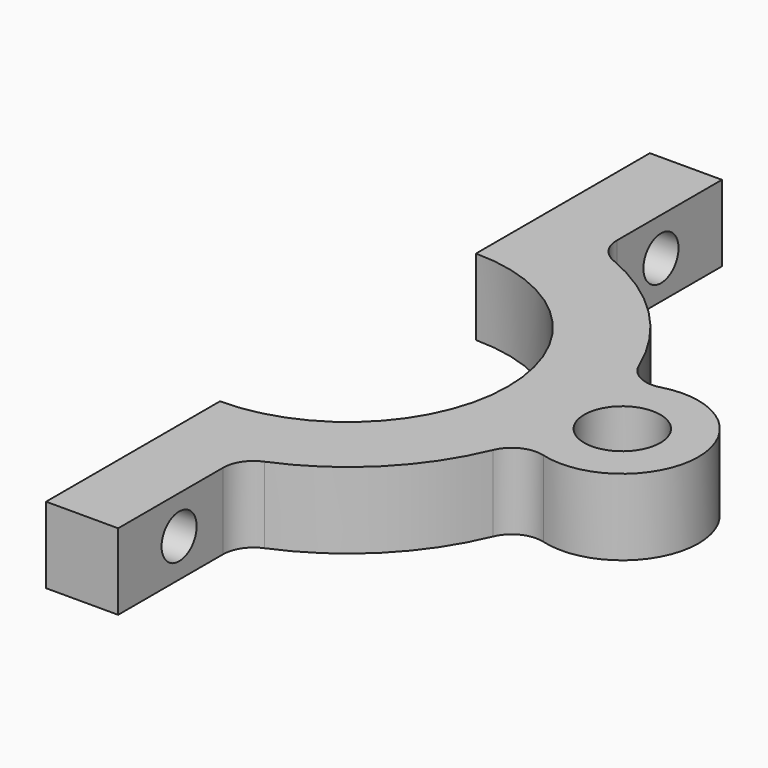
from build123d import *

# Parameters (mm, degrees)
F0_R     = 3.175
F1_DEPTH = 6.35
F2_R     = 1.8288
F3_R     = 1.8288
F4_DEPTH = 6.005883
F5_R     = 2.54


with BuildPart() as f1:
    # F0 (on Top) → F1 (new body)
    with BuildSketch(Plane.XY):
        with BuildLine():
            ThreePointArc((0, 13.335), (13.335, 0), (0, -13.335))
            Line((0, -13.335), (0, -31.446429))
            Line((0, -31.446429), (6.005883, -31.446429))
            Line((6.005883, -31.446429), (6.005883, -18.746429))
            ThreePointArc((6.005883, -18.746429), (14.263495, -13.566575), (19.023542, -5.060048))
            ThreePointArc((19.023542, -5.060048), (29.21, 0), (19.023542, 5.060048))
            ThreePointArc((19.023542, 5.060048), (14.263495, 13.566575), (6.005883, 18.746429))
            Line((6.005883, 18.746429), (6.005883, 31.446429))
            Line((6.005883, 31.446429), (0, 31.446429))
            Line((0, 31.446429), (0, 13.335))
        make_face()
        with Locations((22.86, 0)):
            Circle(F0_R, mode=Mode.SUBTRACT)
    extrude(amount=F1_DEPTH)

    # F2 (on face) + F3 (on face) → F4 (cut, through all)
    with BuildSketch(Plane.YZ.offset(6.005883)):
        with Locations((-25.096429, 3.175)):
            Circle(F2_R)
    with BuildSketch(Plane.YZ.offset(6.005883)):
        with Locations((25.096429, 3.175)):
            Circle(F3_R)
    extrude(amount=-F4_DEPTH, mode=Mode.SUBTRACT)

    # F5
    f5_edges = [f1.edges().sort_by_distance(p)[0] for p in [
        (19.023542, 5.060048, 3.175),
        (19.023542, -5.060048, 3.175),
        (6.005883, -18.746429, 3.175),
        (6.005883, 18.746429, 3.175),
    ]]
    fillet(f5_edges, radius=F5_R)


solid = f1.part
